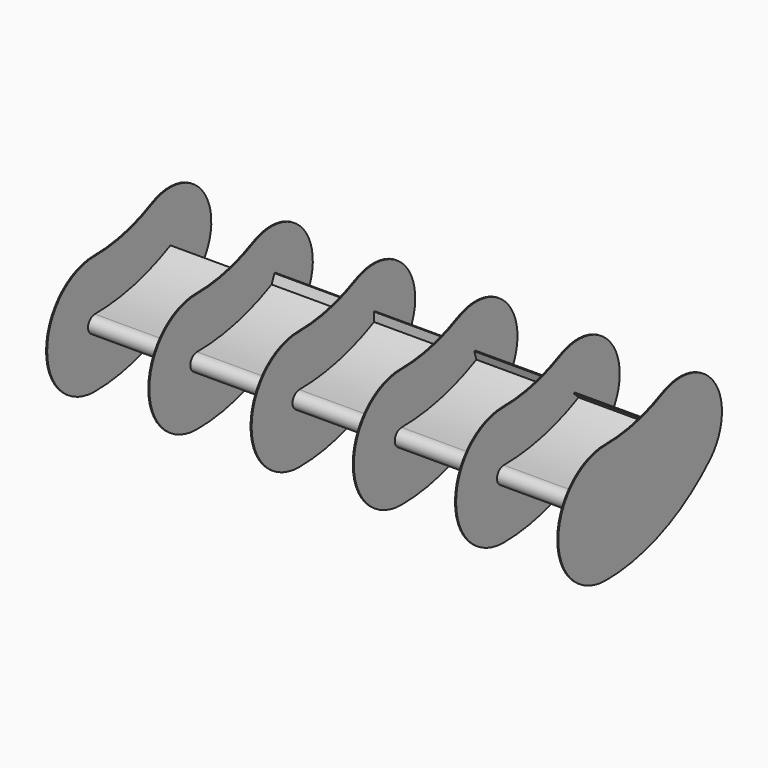
from build123d import *

# Parameters (mm, degrees)
F1_DEPTH  = 1524
F4_DEPTH  = 304.8
F7_DEPTH  = 304.8
F10_DEPTH = 304.8
F14_DEPTH = 1.5875
F16_DEPTH = 1.5875
F18_DEPTH = 1.5875
F20_DEPTH = 1.5875
F22_DEPTH = 1.5875
F24_DEPTH = 304.8
F26_DEPTH = 1.5875


with BuildPart() as f1:
    # F0 (on Right) → F1 (new body)
    with BuildSketch(Plane.YZ):
        with BuildLine():
            ThreePointArc((0, -347.4403916943), (-25.4, -372.8403916943), (0, -398.2403916943))
            ThreePointArc((0, -398.2403916943), (152.4, -367.9261469057), (281.5984815094, -281.5984815094))
            ThreePointArc((281.5984815094, -281.5984815094), (144.5967339925, -330.7608902035), (0, -347.4403916943))
        make_face()
    extrude(amount=F1_DEPTH)

    # F3 (on 3pt) → F4 (join)
    with BuildSketch(Plane.YZ.offset(1524)):
        Polygon((302.0386043773, -306.5287324379), (281.5984815094, -281.5984815094), (263.6379692673, -263.6379692673), (261.392905237, -265.8830332976), align=None)
    extrude(amount=-F4_DEPTH)

    # F6 (on offset) → F7 (join)
    with BuildSketch(Plane.YZ.offset(1219.2)):
        Polygon((286.9017213141, -311.0970612814), (281.5984815094, -281.5984815094), (274.4811571478, -257.216035079), (271.433351344, -258.1057006243), align=None)
    extrude(amount=-F7_DEPTH)

    # F9 (on offset) → F10 (join)
    with BuildSketch(Plane.YZ.offset(914.4)):
        Polygon((278.4234815094, -284.1384815094), (281.5984815094, -281.5984815094), (281.5984815094, -256.1984815094), (278.4234815094, -256.1984815094), align=None)
    extrude(amount=-F10_DEPTH)

    # F13 (on face) → F14 (join, symmetric)
    with BuildSketch(Plane(origin=(0, 0, 0), x_dir=(0, -1, 0), z_dir=(-1, 0, 0))):
        with BuildLine():
            ThreePointArc((0, -550.6403916943), (177.8, -372.8403916943), (0, -195.0403916943))
            ThreePointArc((0, -195.0403916943), (-109.8991760494, -182.3633178757), (-214.0258651779, -144.9979634939))
            ThreePointArc((-214.0258651779, -144.9979634939), (-405.4217806891, -192.7528255646), (-389.3615549623, -389.3615549623))
            ThreePointArc((-389.3615549623, -389.3615549623), (-210.7209550924, -508.7253876604), (0, -550.6403916943))
        make_face()
    extrude(amount=F14_DEPTH, both=True)

    # F15 (on offset) → F16 (join, symmetric)
    with BuildSketch(Plane.YZ.offset(609.6)):
        with BuildLine():
            ThreePointArc((211.9278055472, -146.0295007467), (108.760588215, -182.6280830102), (0, -195.0403916943))
            ThreePointArc((0, -195.0403916943), (-177.8, -372.8403916943), (0, -550.6403916943))
            ThreePointArc((0, -550.6403916943), (210.7209550924, -508.7253876604), (389.3615549623, -389.3615549623))
            ThreePointArc((389.3615549623, -389.3615549623), (402.6332177904, -193.3271563276), (211.9278055472, -146.0295007467))
        make_face()
    extrude(amount=F16_DEPTH, both=True)

    # F17 (on offset) → F18 (join, symmetric)
    with BuildSketch(Plane.YZ.offset(914.4)):
        with BuildLine():
            ThreePointArc((211.9278055472, -146.0295007467), (108.760588215, -182.6280830102), (0, -195.0403916943))
            ThreePointArc((0, -195.0403916943), (-177.8, -372.8403916943), (0, -550.6403916943))
            ThreePointArc((0, -550.6403916943), (210.7209550924, -508.7253876604), (389.3615549623, -389.3615549623))
            ThreePointArc((389.3615549623, -389.3615549623), (402.6332177904, -193.3271563276), (211.9278055472, -146.0295007467))
        make_face()
    extrude(amount=F18_DEPTH, both=True)

    # F19 (on offset) → F20 (join, symmetric)
    with BuildSketch(Plane.YZ.offset(1219.2)):
        with BuildLine():
            ThreePointArc((211.9278055472, -146.0295007467), (108.760588215, -182.6280830102), (0, -195.0403916943))
            ThreePointArc((0, -195.0403916943), (-177.8, -372.8403916943), (0, -550.6403916943))
            ThreePointArc((0, -550.6403916943), (210.7209550924, -508.7253876604), (389.3615549623, -389.3615549623))
            ThreePointArc((389.3615549623, -389.3615549623), (402.6332177904, -193.3271563276), (211.9278055472, -146.0295007467))
        make_face()
    extrude(amount=F20_DEPTH, both=True)

    # F21 (on 3pt) → F22 (join, symmetric)
    with BuildSketch(Plane.YZ.offset(1524)):
        with BuildLine():
            ThreePointArc((211.9278055472, -146.0295007467), (108.760588215, -182.6280830102), (0, -195.0403916943))
            ThreePointArc((0, -195.0403916943), (-177.8, -372.8403916943), (0, -550.6403916943))
            ThreePointArc((0, -550.6403916943), (210.7209550924, -508.7253876604), (389.3615549623, -389.3615549623))
            ThreePointArc((389.3615549623, -389.3615549623), (402.6332177904, -193.3271563276), (211.9278055472, -146.0295007467))
        make_face()
    extrude(amount=F22_DEPTH, both=True)

    # F23 (on offset) → F24 (join)
    with BuildSketch(Plane.YZ.offset(609.6)):
        Polygon((277.4514655912, -283.945135522), (281.5984815094, -281.5984815094), (291.3186406915, -258.1319413837), (288.1436406915, -258.1319413837), align=None)
    extrude(amount=-F24_DEPTH)

    # F25 (on offset) → F26 (join, symmetric)
    with BuildSketch(Plane.YZ.offset(304.8)):
        with BuildLine():
            ThreePointArc((211.1335691615, -146.4167113639), (108.3301046752, -182.7274300654), (0, -195.0403916943))
            ThreePointArc((0, -195.0403916943), (-177.8, -372.8403916943), (0, -550.6403916943))
            ThreePointArc((0, -550.6403916943), (210.7209550924, -508.7253876604), (389.3615549623, -389.3615549623))
            ThreePointArc((389.3615549623, -389.3615549623), (401.5869061697, -193.5450684149), (211.1335691615, -146.4167113639))
        make_face()
    extrude(amount=F26_DEPTH, both=True)


solid = f1.part
